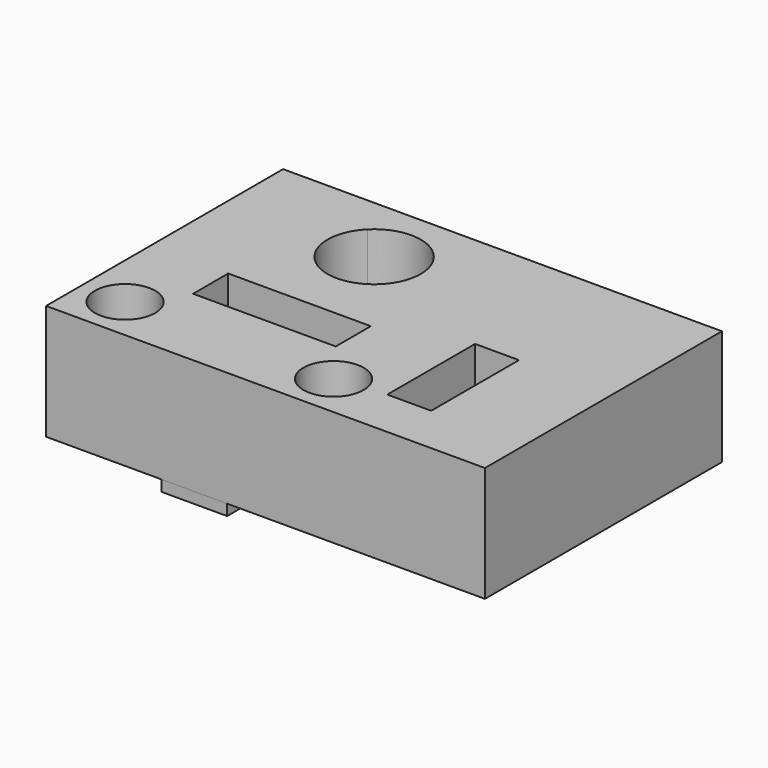
from build123d import *

# Parameters (mm, degrees)
F0_R     = 2.75
F0_W     = 4
F0_H     = 10
F0_W_2   = 6
F0_H_2   = 8
F1_DEPTH = 10.5
F0_R_2   = 2.5
F2_DEPTH = 3
F3_DEPTH = 1


with BuildPart() as f1:
    # F0 (on Top) → F1 (new body)
    with BuildSketch(Plane.XY):
        with BuildLine():
            Line((-20, -13.5), (-9.5, -13.5))
            Line((-9.5, -13.5), (-9.5, -5.5))
            Line((-9.5, -5.5), (-13, -5.5))
            Line((-13, -5.5), (-13, -1.5))
            Line((-13, -1.5), (-9.5, -1.5))
            Line((-9.5, -1.5), (-9.5, 3.9896013553))
            ThreePointArc((-9.5, 3.9896013553), (-10.75, 7), (-9.5, 10.0103986447))
            Line((-9.5, 10.0103986447), (-9.5, 13.5))
            Line((-9.5, 13.5), (-20, 13.5))
            Line((-20, 13.5), (-20, -13.5))
        make_face()
        with Locations((-16, -9.5)):
            Circle(F0_R, mode=Mode.SUBTRACT)
        with BuildLine():
            Line((-3.5, 10.0103986447), (-3.5, 13.5))
            Line((-3.5, 13.5), (-9.5, 13.5))
            Line((-9.5, 13.5), (-9.5, 10.0103986447))
            ThreePointArc((-9.5, 10.0103986447), (-6.5, 11.25), (-3.5, 10.0103986447))
        make_face()
        with BuildLine():
            Line((-3.5, -13.5), (20, -13.5))
            Line((20, -13.5), (20, 13.5))
            Line((20, 13.5), (-3.5, 13.5))
            Line((-3.5, 13.5), (-3.5, 10.0103986447))
            ThreePointArc((-3.5, 10.0103986447), (-2.574920383, 8.6298006013), (-2.25, 7))
            ThreePointArc((-2.25, 7), (-2.574920383, 5.3701993987), (-3.5, 3.9896013553))
            Line((-3.5, 3.9896013553), (-3.5, -1.5))
            Line((-3.5, -1.5), (0, -1.5))
            Line((0, -1.5), (0, -5.5))
            Line((0, -5.5), (-3.5, -5.5))
            Line((-3.5, -5.5), (-3.5, -13.5))
        make_face()
        with Locations((3, -9.5)):
            Circle(F0_R, mode=Mode.SUBTRACT)
        with Locations((9.5, -4)):
            Rectangle(F0_W, F0_H, mode=Mode.SUBTRACT)
        with Locations((-6.5, -9.5)):
            Rectangle(F0_W_2, F0_H_2)
        with BuildLine():
            Line((-9.5, -1.5), (-3.5, -1.5))
            Line((-3.5, -1.5), (-3.5, 3.9896013553))
            ThreePointArc((-3.5, 3.9896013553), (-6.5, 2.75), (-9.5, 3.9896013553))
            Line((-9.5, 3.9896013553), (-9.5, -1.5))
        make_face()
    extrude(amount=F1_DEPTH)

    # F0 (on Top) → F2 (join)
    with BuildSketch(Plane.XY):
        with BuildLine():
            Line((-9.5, 3.9896013553), (-9.5, 10.0103986447))
            ThreePointArc((-9.5, 10.0103986447), (-10.75, 7), (-9.5, 3.9896013553))
        make_face()
        with BuildLine():
            Line((-3.5, 3.9896013553), (-3.5, 10.0103986447))
            ThreePointArc((-3.5, 10.0103986447), (-6.5, 11.25), (-9.5, 10.0103986447))
            Line((-9.5, 10.0103986447), (-9.5, 3.9896013553))
            ThreePointArc((-9.5, 3.9896013553), (-6.5, 2.75), (-3.5, 3.9896013553))
        make_face()
        with Locations((-6.5, 7)):
            Circle(F0_R_2, mode=Mode.SUBTRACT)
        with BuildLine():
            ThreePointArc((-2.25, 7), (-2.574920383, 8.6298006013), (-3.5, 10.0103986447))
            Line((-3.5, 10.0103986447), (-3.5, 3.9896013553))
            ThreePointArc((-3.5, 3.9896013553), (-2.574920383, 5.3701993987), (-2.25, 7))
        make_face()
    extrude(amount=F2_DEPTH)

    # F0 (on Top) → F3 (join)
    with BuildSketch(Plane.XY):
        with BuildLine():
            Line((-3.5, 10.0103986447), (-3.5, 13.5))
            Line((-3.5, 13.5), (-9.5, 13.5))
            Line((-9.5, 13.5), (-9.5, 10.0103986447))
            ThreePointArc((-9.5, 10.0103986447), (-6.5, 11.25), (-3.5, 10.0103986447))
        make_face()
        with BuildLine():
            Line((-3.5, 3.9896013553), (-3.5, 10.0103986447))
            ThreePointArc((-3.5, 10.0103986447), (-6.5, 11.25), (-9.5, 10.0103986447))
            Line((-9.5, 10.0103986447), (-9.5, 3.9896013553))
            ThreePointArc((-9.5, 3.9896013553), (-6.5, 2.75), (-3.5, 3.9896013553))
        make_face()
        with Locations((-6.5, 7)):
            Circle(F0_R_2, mode=Mode.SUBTRACT)
        with BuildLine():
            Line((-9.5, -1.5), (-3.5, -1.5))
            Line((-3.5, -1.5), (-3.5, 3.9896013553))
            ThreePointArc((-3.5, 3.9896013553), (-6.5, 2.75), (-9.5, 3.9896013553))
            Line((-9.5, 3.9896013553), (-9.5, -1.5))
        make_face()
        with Locations((-6.5, -9.5)):
            Rectangle(F0_W_2, F0_H_2)
    extrude(amount=-F3_DEPTH)


solid = f1.part
